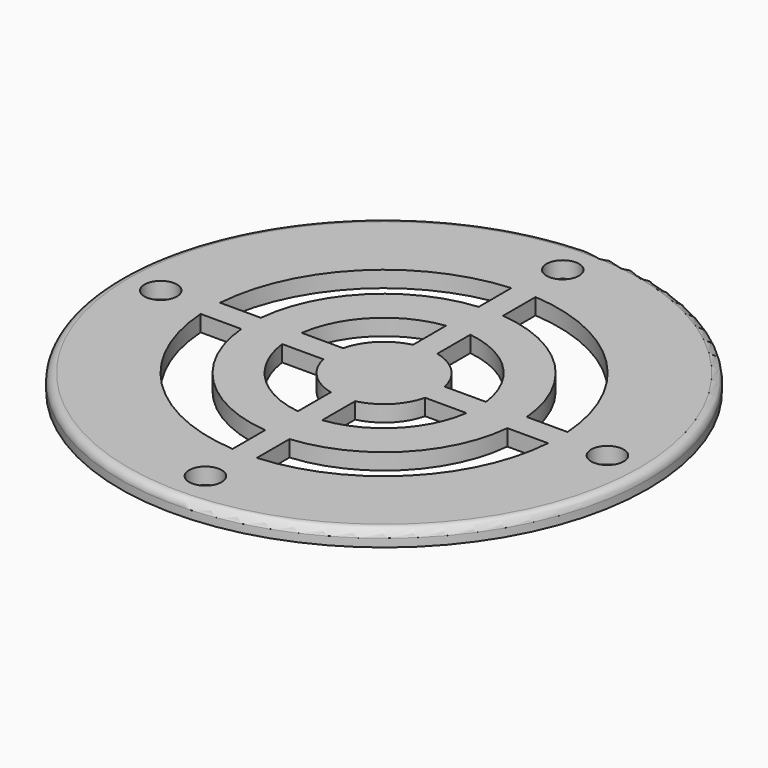
from build123d import *

# Parameters (mm, degrees)
F0_R      = 41.275
F1_DEPTH  = 2.54
F2_R      = 2.54
F3_DEPTH  = 2.541
F4_R      = 2.54
F5_DEPTH  = 2.541
F6_R      = 2.54
F7_DEPTH  = 2.541
F8_R      = 2.54
F9_DEPTH  = 2.541
F10_R     = 1.27
F11_R     = 27.305
F12_DEPTH = 2.541
F13_R     = 20.955
F14_DEPTH = 2.54
F15_R     = 14.605
F16_DEPTH = 2.541
F17_R     = 8.255
F18_DEPTH = 2.54
F19_W     = 3.796444
F19_H     = 24.866691
F20_DEPTH = 2.54
F21_W     = 24.866692
F21_H     = 3.796442
F22_DEPTH = 2.54
F23_W     = 3.796442
F23_H     = 25.815801
F24_DEPTH = 2.54
F25_W     = 24.86669
F25_H     = 3.796442
F26_DEPTH = 2.54


with BuildPart() as f1:
    # F0 (on Top) → F1 (new body)
    with BuildSketch(Plane.XY):
        Circle(F0_R)
    extrude(amount=F1_DEPTH)

    # F2 (on face) → F3 (cut, through all)
    with BuildSketch(Plane.XY.offset(2.54)):
        with Locations((0, 34.925)):
            Circle(F2_R)
    extrude(amount=-F3_DEPTH, mode=Mode.SUBTRACT)

    # F4 (on face) → F5 (cut, through all)
    with BuildSketch(Plane.XY.offset(2.54)):
        with Locations((0, -34.925)):
            Circle(F4_R)
    extrude(amount=-F5_DEPTH, mode=Mode.SUBTRACT)

    # F6 (on face) → F7 (cut, through all)
    with BuildSketch(Plane.XY.offset(2.54)):
        with Locations((-34.925, 0)):
            Circle(F6_R)
    extrude(amount=-F7_DEPTH, mode=Mode.SUBTRACT)

    # F8 (on face) → F9 (cut, through all)
    with BuildSketch(Plane.XY.offset(2.54)):
        with Locations((34.925, 0)):
            Circle(F8_R)
    extrude(amount=-F9_DEPTH, mode=Mode.SUBTRACT)

    # F10
    f10_edges = [f1.edges().sort_by_distance(p)[0] for p in [
        (-41.275, 0, 2.54),
    ]]
    fillet(f10_edges, radius=F10_R)

    # F11 (on face) → F12 (cut, through all)
    with BuildSketch(Plane.XY.offset(2.54)):
        Circle(F11_R)
    extrude(amount=-F12_DEPTH, mode=Mode.SUBTRACT)



with BuildPart() as f14:
    # F13 (on face) → F14 (new body)
    with BuildSketch(Plane.XY.offset(2.54)):
        Circle(F13_R)
    extrude(amount=-F14_DEPTH)

    # F15 (on face) → F16 (cut, through all)
    with BuildSketch(Plane.XY.offset(2.54)):
        Circle(F15_R)
    extrude(amount=-F16_DEPTH, mode=Mode.SUBTRACT)


with BuildPart() as f18:
    # F17 (on face) → F18 (new body)
    with BuildSketch(Plane.XY.offset(2.54)):
        Circle(F17_R)
    extrude(amount=-F18_DEPTH)


with BuildPart() as f1_1:
    add(f1.part)

    add(f14.part)  # F20 merges F14

    add(f18.part)  # F20 merges F18
    # F19 (on face) → F20 (join)
    with BuildSketch(Plane.XY.offset(2.54)):
        with Locations((0, -17.463631)):
            Rectangle(F19_W, F19_H)
    extrude(amount=-F20_DEPTH)

    # F21 (on face) → F22 (join)
    with BuildSketch(Plane.XY.offset(2.54)):
        with Locations((16.989075, -0.094911)):
            Rectangle(F21_W, F21_H)
    extrude(amount=-F22_DEPTH)

    # F23 (on face) → F24 (join)
    with BuildSketch(Plane.XY.offset(2.54)):
        with Locations((0, 17.178897)):
            Rectangle(F23_W, F23_H)
    extrude(amount=-F24_DEPTH)

    # F25 (on face) → F26 (join)
    with BuildSketch(Plane.XY.offset(2.54)):
        with Locations((-18.128007, 0.094911)):
            Rectangle(F25_W, F25_H)
    extrude(amount=-F26_DEPTH)


solid = f1_1.part
